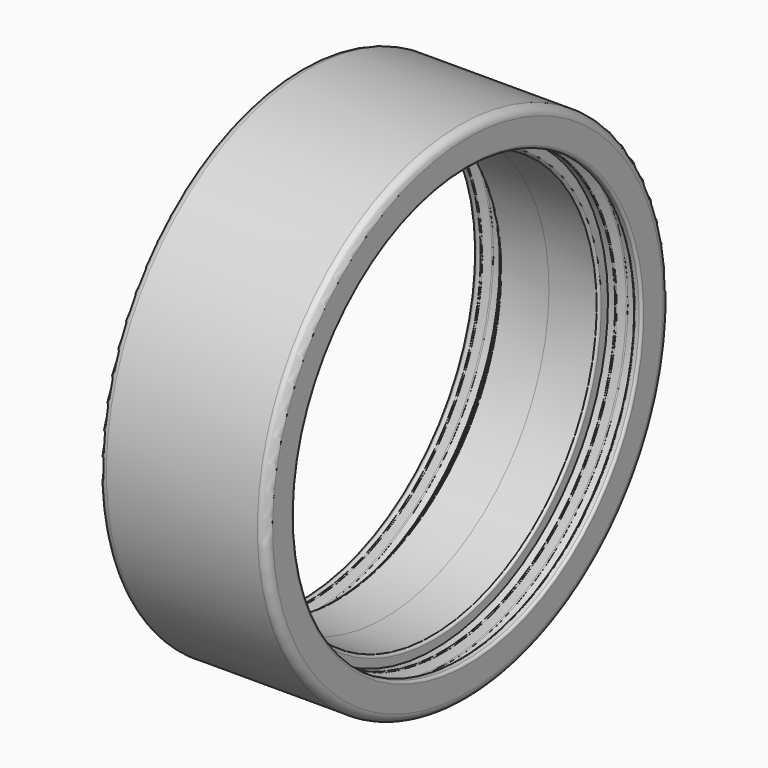
from build123d import *

# Parameters (mm, degrees)
F2_R = 0.06
F3_R = 0.03
F4_R = 0.06
F5_R = 0.2


with BuildPart() as f1:
    # F0 (on Front) → F1 (revolve)
    with BuildSketch(Plane.XZ):
        Polygon((1.9935, 5.9975), (0, 5.9975), (0, 4.9), (1.1935, 4.9), (1.1935, 5.16), (1.3815, 5.16), (1.4965, 5.35), (1.5965, 5.35), (1.6965, 5.35), (1.8115, 5.16), (1.9935, 5.16), align=None)
    revolve(axis=Axis((0.99675, 0, 0), (1, 0, 0)))

    # F2
    f2_edges = [f1.edges().sort_by_distance(p)[0] for p in [
        (1.9935, 0, -5.16),
    ]]
    fillet(f2_edges, radius=F2_R)

    # F3
    f3_edges = [f1.edges().sort_by_distance(p)[0] for p in [
        (1.3815, 0, -5.16),
        (1.4965, 0, -5.35),
        (1.6965, 0, -5.35),
        (1.8115, 0, -5.16),
    ]]
    fillet(f3_edges, radius=F3_R)

    # F4
    f4_edges = [f1.edges().sort_by_distance(p)[0] for p in [
        (1.1935, 0, -4.9),
    ]]
    fillet(f4_edges, radius=F4_R)

    # F5
    f5_edges = [f1.edges().sort_by_distance(p)[0] for p in [
        (1.9935, 0, -5.9975),
    ]]
    fillet(f5_edges, radius=F5_R)

    # F6: F1 across plane


with BuildPart() as f1_1:
    add(f1.part)
    add(f1.part.mirror(Plane.YZ))


solid = f1_1.part
